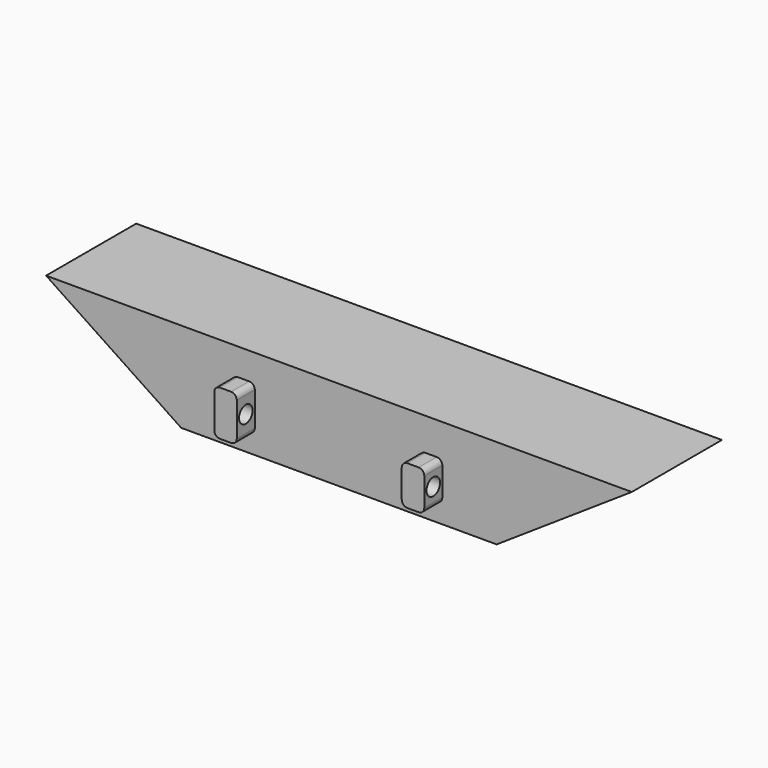
from build123d import *

# Parameters (mm, degrees)
F0_W     = 355.6
F0_H     = 203.2
F1_DEPTH = 254
F5_DEPTH = 50.8
F6_R     = 19.05
F7_DEPTH = 50.8
F8_R     = 19.05
F9_DEPTH = 50.8


with BuildPart() as f1:
    # F0 (on Front) → F1 (new body)
    with BuildSketch(Plane.XZ):
        with Locations((177.8, 101.6)):
            Rectangle(F0_W, F0_H)
        with Locations((-177.8, 101.6)):
            Rectangle(F0_W, F0_H)
        Polygon((355.6, 203.2), (355.6, 0), (660.4, 203.2), align=None)
        Polygon((-660.4, 203.2), (-355.6, 0), (-355.6, 203.2), align=None)
    extrude(amount=F1_DEPTH)

    # F4 (on face) + F3 (on face) → F5 (join)
    with BuildSketch(Plane.XZ.offset(254)):
        with BuildLine():
            ThreePointArc((-240.525891, 53.34), (-236.806147, 44.359744), (-227.825891, 40.64))
            Line((-227.825891, 40.64), (-202.425891, 40.64))
            ThreePointArc((-202.425891, 40.64), (-193.445635, 44.359744), (-189.725891, 53.34))
            Line((-189.725891, 53.34), (-189.725891, 129.54))
            ThreePointArc((-189.725891, 129.54), (-193.445635, 138.520256), (-202.425891, 142.24))
            Line((-202.425891, 142.24), (-227.825891, 142.24))
            ThreePointArc((-227.825891, 142.24), (-236.806147, 138.520256), (-240.525891, 129.54))
            Line((-240.525891, 129.54), (-240.525891, 53.34))
        make_face()
    with BuildSketch(Plane.XZ.offset(254)):
        with BuildLine():
            ThreePointArc((233.048756, 116.839396), (229.329012, 125.819652), (220.348756, 129.539396))
            Line((220.348756, 129.539396), (194.948756, 129.539396))
            ThreePointArc((194.948756, 129.539396), (185.9685, 125.819652), (182.248756, 116.839396))
            Line((182.248756, 116.839396), (182.248756, 53.339396))
            ThreePointArc((182.248756, 53.339396), (185.9685, 44.35914), (194.948756, 40.639396))
            Line((194.948756, 40.639396), (220.348756, 40.639396))
            ThreePointArc((220.348756, 40.639396), (229.329012, 44.35914), (233.048756, 53.339396))
            Line((233.048756, 53.339396), (233.048756, 116.839396))
        make_face()
    extrude(amount=F5_DEPTH)

    # F6 (on face) → F7 (cut)
    with BuildSketch(Plane.YZ.offset(233.048756)):
        with Locations((-279.4, 85.089396)):
            Circle(F6_R)
    extrude(amount=-F7_DEPTH, mode=Mode.SUBTRACT)

    # F8 (on face) → F9 (cut)
    with BuildSketch(Plane(origin=(-240.525891, 0, 0), x_dir=(0, -1, 0), z_dir=(-1, 0, 0))):
        with Locations((279.4, 91.44)):
            Circle(F8_R)
    extrude(amount=-F9_DEPTH, mode=Mode.SUBTRACT)


solid = f1.part
